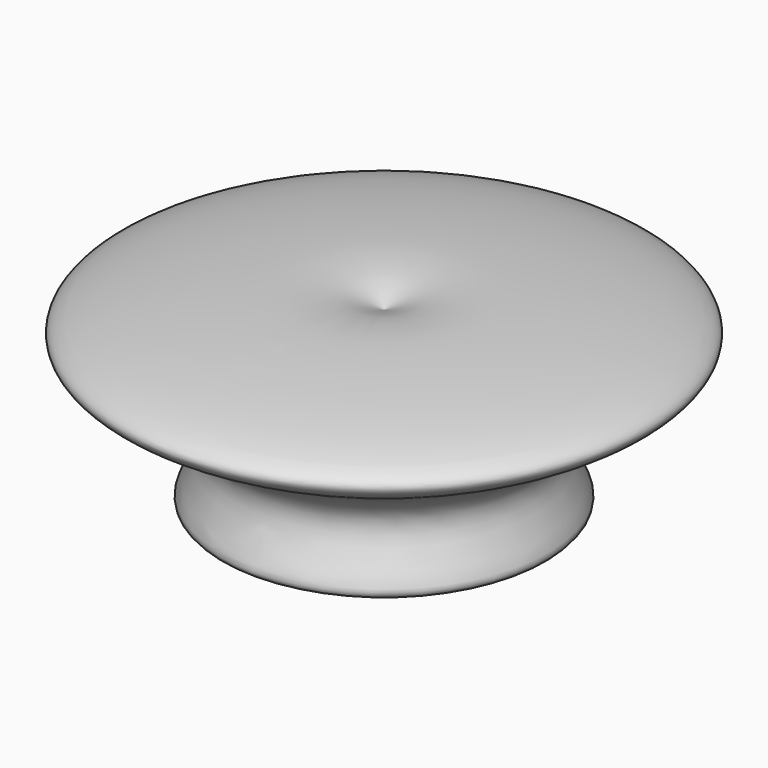
from build123d import *


with BuildPart() as f1:
    # F0 (on Right) → F1 (revolve)
    with BuildSketch(Plane.YZ):
        with BuildLine():
            Line((0, 0), (0, 54.9621768296))
            add(Edge.make_bspline(
                [(0, 54.9621768296), (-8.5349263578, 58.3646277625), (-19.0456088761, 61.4347715623), (-102.8696911364, 51.9183416032), (-27.832701208, 31.3017101341), (-52.4913467916, 5.4377604357), (-31.8187149852, 7.405134617), (-8.0010718347, -0.3791786803), (-30.4776162412, 34.5127503151), (-18.9363150645, 34.3034480012), (-3.4190328363, 45.1735140787), (-10.7551983211, 9.5328766623), (-12.5052910298, 0)],
                knots=[0, 0, 0, 0, 0.1068358388, 0.2554830169, 0.3875567518, 0.4772548955, 0.5563612353, 0.6387646225, 0.7481199078, 0.8043166137, 0.8704663778, 1, 1, 1, 1], degree=3))
            Line((-12.5052910298, 0), (0, 0))
        make_face()
    revolve(axis=Axis((0, 0, 27.4810884148), (0, 0, 1)))


solid = f1.part
